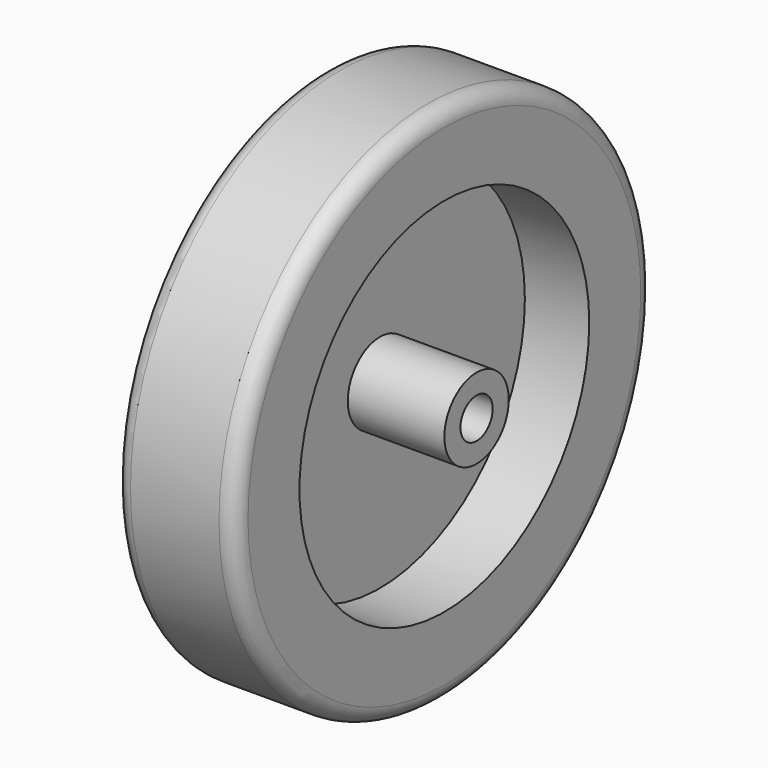
from build123d import *

# Parameters (mm, degrees)
SKETCH_R        = 32.5
SKETCH_R_2      = 2.5
PAD_DEPTH       = 15
SKETCH001_R     = 5
SKETCH001_R_2   = 2.5
PAD001_DEPTH    = 4
SKETCH002_R     = 22.5
SKETCH002_R_2   = 7.5
POCKET_DEPTH    = 3
SKETCH003_R     = 22.5
SKETCH003_R_2   = 5
POCKET001_DEPTH = 8
FILLET_R        = 2
FILLET001_R     = 2


with BuildPart() as part:
    # Sketch → Pad (new body)
    with BuildSketch(Plane.YZ):
        Circle(SKETCH_R)
        Circle(SKETCH_R_2, mode=Mode.SUBTRACT)
    extrude(amount=PAD_DEPTH)

    # Sketch001 (on Face4 of Pad) → Pad001 (join)
    with BuildSketch(Plane.YZ.offset(15)):
        Circle(SKETCH001_R)
        Circle(SKETCH001_R_2, mode=Mode.SUBTRACT)
    extrude(amount=PAD001_DEPTH)

    # Sketch002 (on Face2 of Pad001) → Pocket (cut)
    with BuildSketch(Plane(origin=(0, 0, 0), x_dir=(0, 1, 0), z_dir=(-1, 0, 0))):
        Circle(SKETCH002_R)
        Circle(SKETCH002_R_2, mode=Mode.SUBTRACT)
    extrude(amount=-POCKET_DEPTH, mode=Mode.SUBTRACT)

    # Sketch003 (on Face3 of Pocket) → Pocket001 (cut)
    with BuildSketch(Plane.YZ.offset(15)):
        Circle(SKETCH003_R)
        Circle(SKETCH003_R_2, mode=Mode.SUBTRACT)
    extrude(amount=-POCKET001_DEPTH, mode=Mode.SUBTRACT)

    # Fillet
    fillet_edges = [part.edges().sort_by_distance(p)[0] for p in [
        (15, -32.5, 0),
    ]]
    fillet(fillet_edges, radius=FILLET_R)

    # Fillet001
    fillet001_edges = [part.edges().sort_by_distance(p)[0] for p in [
        (0, -32.5, 0),
    ]]
    fillet(fillet001_edges, radius=FILLET001_R)


solid = part.part
